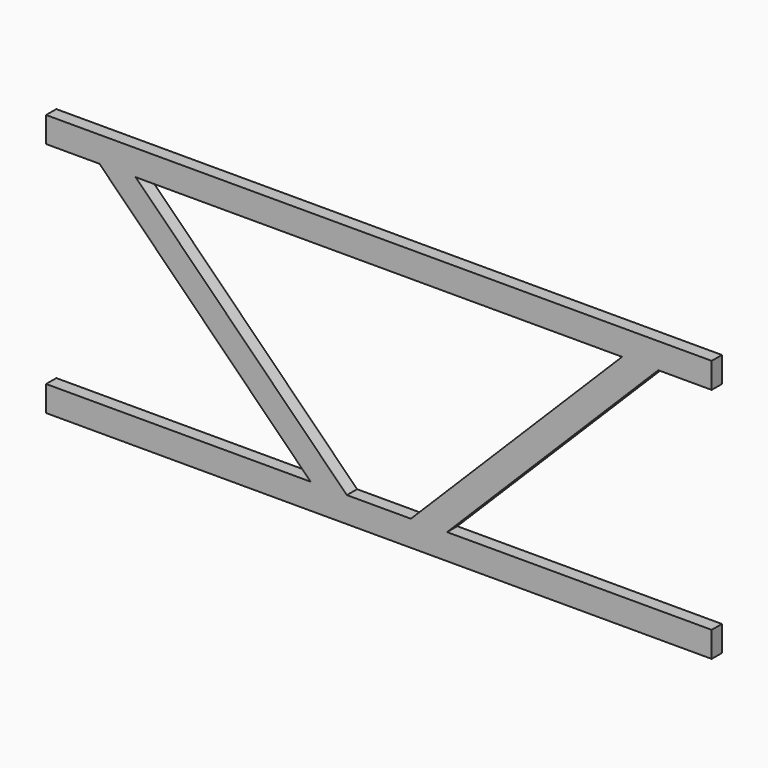
from build123d import *

# Parameters (mm, degrees)
F1_DEPTH = 25.4


with BuildPart() as f1:
    # F0 (on Front) → F1 (new body)
    with BuildSketch(Plane.XZ):
        Polygon((660.4, 209.55), (660.4, 260.35), (-660.4, 260.35), (-660.4, 209.55), (-554.442049, 209.55), (-482.6, 209.55), (-63.5, 209.55), (63.5, 209.55), (482.6, 209.55), (554.442049, 209.55), align=None)
        Polygon((308.971024, -35.921024), (554.442049, 209.55), (482.6, 209.55), (63.5, -209.55), (135.342049, -209.55), align=None)
        Polygon((135.342049, -209.55), (63.5, -209.55), (-63.5, -209.55), (-135.342049, -209.55), (-660.4, -209.55), (-660.4, -260.35), (660.4, -260.35), (660.4, -209.55), align=None)
        Polygon((-482.6, 209.55), (-554.442049, 209.55), (-308.971024, -35.921024), (-135.342049, -209.55), (-63.5, -209.55), align=None)
    extrude(amount=F1_DEPTH)


solid = f1.part
